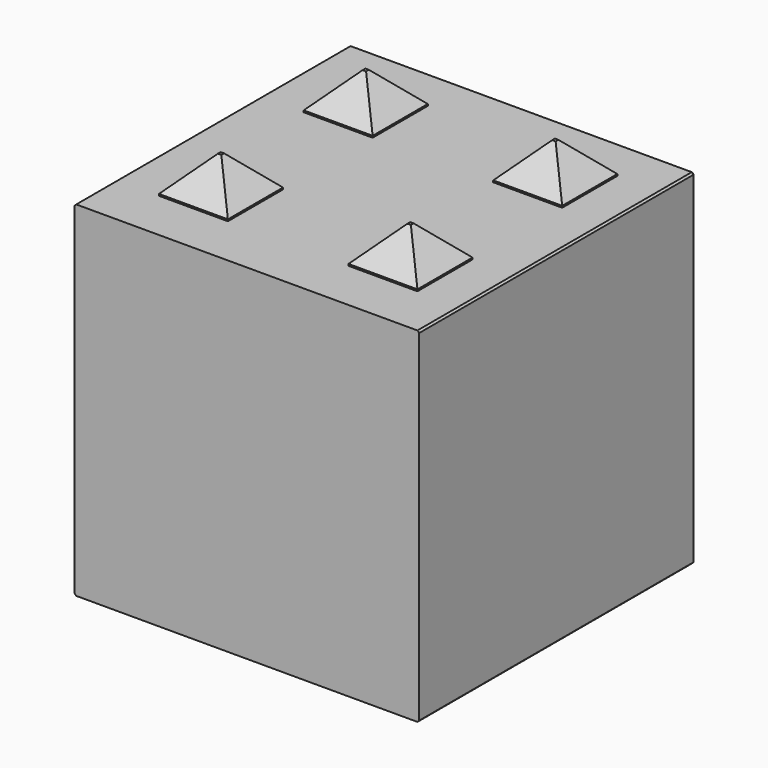
from build123d import *

# Parameters (mm, degrees)
F0_W      = 100
F0_H      = 100
F1_DEPTH  = 100
F2_W      = 20
F2_H      = 20
F3_DEPTH  = 10
F4_SIZE   = 9.5
F5_W      = 20
F5_H      = 20
F6_DEPTH  = 10.25
F7_SIZE   = 9
F8_SIZE   = 0.5
F10_DEPTH = 100


with BuildPart() as f1:
    # F0 (on Front) → F1 (new body, symmetric)
    with BuildSketch(Plane.XZ):
        Rectangle(F0_W, F0_H)
    extrude(amount=F1_DEPTH, both=True)

    # F2 (on face) → F3 (join)
    with BuildSketch(Plane.XY.offset(50)):
        with Locations((-27.5, 77.5)):
            Rectangle(F2_W, F2_H)
        with Locations((27.5, 77.5)):
            Rectangle(F2_W, F2_H)
        with Locations((-27.5, 25)):
            Rectangle(F2_W, F2_H)
        with Locations((-27.5, -25)):
            Rectangle(F2_W, F2_H)
        with Locations((-27.5, -77.5)):
            Rectangle(F2_W, F2_H)
        with Locations((27.5, -77.5)):
            Rectangle(F2_W, F2_H)
        with Locations((27.5, -25)):
            Rectangle(F2_W, F2_H)
        with Locations((27.5, 25)):
            Rectangle(F2_W, F2_H)
    extrude(amount=F3_DEPTH)

    # F4
    f4_edges = [f1.edges().sort_by_distance(p)[0] for p in [
        (27.5, -67.5, 60),
        (17.5, -77.5, 60),
        (27.5, -87.5, 60),
        (37.5, -77.5, 60),
        (27.5, -15, 60),
        (17.5, -25, 60),
        (27.5, -35, 60),
        (37.5, -25, 60),
        (-27.5, -67.5, 60),
        (-37.5, -77.5, 60),
        (-27.5, -87.5, 60),
        (-17.5, -77.5, 60),
        (-27.5, -15, 60),
        (-37.5, -25, 60),
        (-27.5, -35, 60),
        (-17.5, -25, 60),
        (-27.5, 35, 60),
        (-37.5, 25, 60),
        (-27.5, 15, 60),
        (-17.5, 25, 60),
        (-27.5, 87.5, 60),
        (-37.5, 77.5, 60),
        (-27.5, 67.5, 60),
        (-17.5, 77.5, 60),
        (27.5, 87.5, 60),
        (17.5, 77.5, 60),
        (27.5, 67.5, 60),
        (37.5, 77.5, 60),
        (17.5, 25, 60),
        (27.5, 15, 60),
        (37.5, 25, 60),
        (27.5, 35, 60),
    ]]
    chamfer(f4_edges, length=F4_SIZE)

    # F5 (on face) → F6 (cut)
    with BuildSketch(Plane(origin=(0, 0, -50), x_dir=(1, 0, 0), z_dir=(0, 0, -1))):
        with Locations((-27.5, 77.5)):
            Rectangle(F5_W, F5_H)
        with Locations((27.5, 77.5)):
            Rectangle(F5_W, F5_H)
        with Locations((27.5, 25)):
            Rectangle(F5_W, F5_H)
        with Locations((-27.5, 25)):
            Rectangle(F5_W, F5_H)
        with Locations((-27.5, -25)):
            Rectangle(F5_W, F5_H)
        with Locations((27.5, -25)):
            Rectangle(F5_W, F5_H)
        with Locations((27.5, -77.5)):
            Rectangle(F5_W, F5_H)
        with Locations((-27.5, -77.5)):
            Rectangle(F5_W, F5_H)
    extrude(amount=-F6_DEPTH, mode=Mode.SUBTRACT)

    # F7
    f7_edges = [f1.edges().sort_by_distance(p)[0] for p in [
        (27.5, -87.5, -39.75),
        (17.5, -77.5, -39.75),
        (27.5, -67.5, -39.75),
        (37.5, -77.5, -39.75),
        (-27.5, -87.5, -39.75),
        (-37.5, -77.5, -39.75),
        (-27.5, -67.5, -39.75),
        (-17.5, -77.5, -39.75),
        (-27.5, -35, -39.75),
        (-37.5, -25, -39.75),
        (-27.5, -15, -39.75),
        (-17.5, -25, -39.75),
        (17.5, -25, -39.75),
        (27.5, -15, -39.75),
        (37.5, -25, -39.75),
        (27.5, -35, -39.75),
        (27.5, 15, -39.75),
        (17.5, 25, -39.75),
        (27.5, 35, -39.75),
        (37.5, 25, -39.75),
        (-27.5, 15, -39.75),
        (-37.5, 25, -39.75),
        (-27.5, 35, -39.75),
        (-17.5, 25, -39.75),
        (-27.5, 67.5, -39.75),
        (-37.5, 77.5, -39.75),
        (-27.5, 87.5, -39.75),
        (-17.5, 77.5, -39.75),
        (27.5, 67.5, -39.75),
        (17.5, 77.5, -39.75),
        (27.5, 87.5, -39.75),
        (37.5, 77.5, -39.75),
    ]]
    chamfer(f7_edges, length=F7_SIZE)

    # F8
    f8_edges = [f1.edges().sort_by_distance(p)[0] for p in [
        (0, -100, 50),
        (-50, -100, 0),
        (0, -100, -50),
        (50, -100, 0),
        (0, 100, 50),
        (-50, 100, 0),
        (0, 100, -50),
        (50, 100, 0),
        (50, 0, 50),
        (50, 0, -50),
        (-50, 0, 50),
        (-50, 0, -50),
    ]]
    chamfer(f8_edges, length=F8_SIZE)

    # F9 (on face) → F10 (cut)
    with BuildSketch(Plane.YZ.offset(50)):
        Polygon((0, -62.8767311573), (0, 0), (0, 74.2203742266), (-106.3256561756, 74.2203742266), (-106.3256561756, -62.8767311573), align=None)
    extrude(amount=-F10_DEPTH, mode=Mode.SUBTRACT)


solid = f1.part
